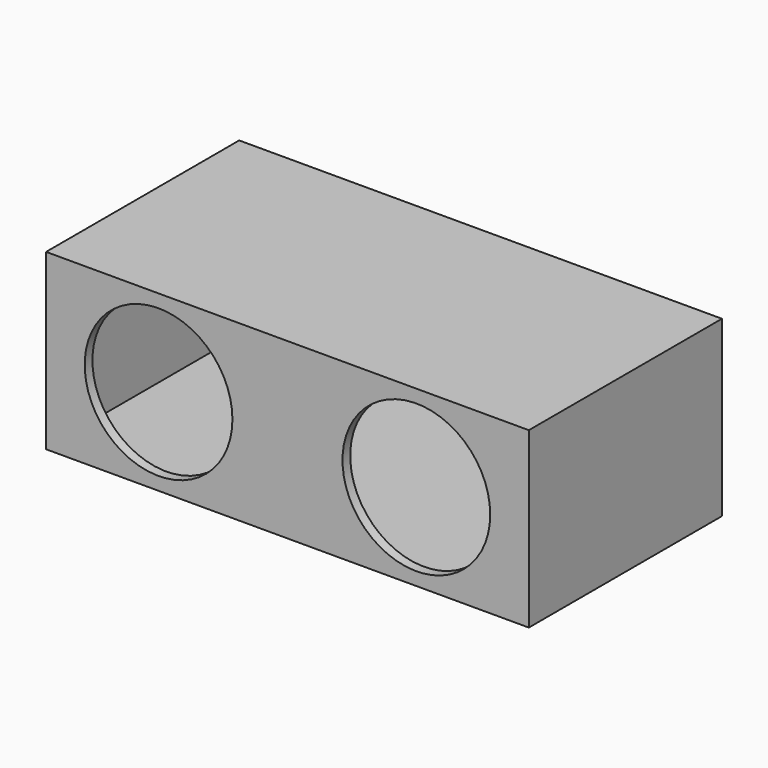
from build123d import *

# Parameters (mm, degrees)
F0_W     = 500
F0_H     = 180
F1_DEPTH = 250
F2_T     = -10
F3_R     = 76.5
F4_DEPTH = 25


with BuildPart() as f1:
    # F0 (on Front) → F1 (new body)
    with BuildSketch(Plane.XZ):
        with Locations((16.63438, -3.742575)):
            Rectangle(F0_W, F0_H)
    extrude(amount=F1_DEPTH)

    # F2
    f2_openings = [f1.faces().sort_by_distance(p)[0] for p in [
        (16.63438, 0, -3.742575),
    ]]
    offset(amount=F2_T, openings=f2_openings)

    # F3 (on face) → F4 (cut)
    with BuildSketch(Plane.XZ.offset(250)):
        with Locations((-116.86562, -3.742575)):
            Circle(F3_R)
        with Locations((150.13438, -3.742575)):
            Circle(F3_R)
    extrude(amount=-F4_DEPTH, mode=Mode.SUBTRACT)


solid = f1.part
